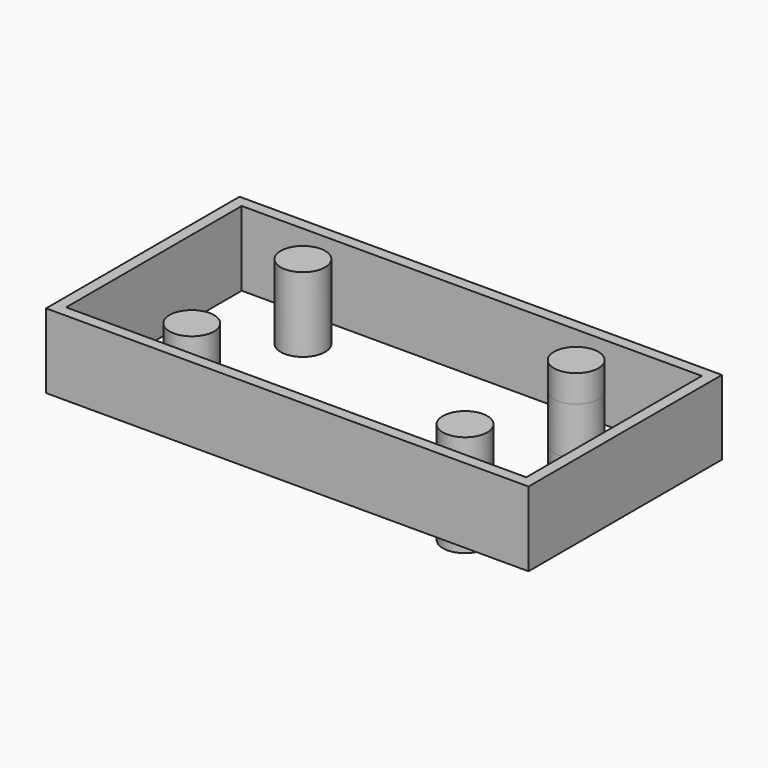
from build123d import *

# Parameters (mm, degrees)
F0_R       = 5.9775161225
F1_DEPTH   = 20.066
F0_W       = 129.7355321646
F0_H       = 65.0189756741
F0_W_2     = 123.7355321646
F0_H_2     = 59.0189756741
F1_FACE_R  = 5.9775161225
F1_FACE1_R = 5.9775161225
F2_DEPTH   = 7.366


with BuildPart() as f1:
    # F0 (on Top) → F1 (new body)
    with BuildSketch(Plane.XY):
        with Locations((36.7489270866, -18.6794780054)):
            Circle(F0_R)
    extrude(amount=F1_DEPTH)


with BuildPart() as f1b:
    # F0 (on Top) → F1, piece 2 (new body)
    with BuildSketch(Plane.XY):
        with Locations((-36.7489270866, -18.6794780054)):
            Circle(F0_R)
    extrude(amount=F1_DEPTH)


with BuildPart() as f1c:
    # F0 (on Top) → F1, piece 3 (new body)
    with BuildSketch(Plane.XY):
        with Locations((36.7489270866, 18.6794780054)):
            Circle(F0_R)
    extrude(amount=F1_DEPTH)


with BuildPart() as f1d:
    # F0 (on Top) → F1, piece 4 (new body)
    with BuildSketch(Plane.XY):
        Rectangle(F0_W, F0_H)
        Rectangle(F0_W_2, F0_H_2, mode=Mode.SUBTRACT)
    extrude(amount=F1_DEPTH)


with BuildPart() as f1e:
    # F0 (on Top) → F1, piece 5 (new body)
    with BuildSketch(Plane.XY):
        with Locations((-36.7489270866, 18.6794780054)):
            Circle(F0_R)
    extrude(amount=F1_DEPTH)


with BuildPart() as f2:
    # F1_face (on face) + F1_face1 (on face) → F2 (new body)
    with BuildSketch(Plane(origin=(36.7489270866, -18.6794780054, 0), x_dir=(1, 0, 0), z_dir=(0, 0, -1))):
        Circle(F1_FACE_R)
        with Locations((0, -37.3589560108)):
            Circle(F1_FACE_R)
    with BuildSketch(Plane(origin=(36.7489270866, 18.6794780054, 20.066), x_dir=(1, 0, 0), z_dir=(0, 0, 1))):
        Circle(F1_FACE1_R)
    extrude(amount=F2_DEPTH, dir=(0, 0, -1))


solid = Compound([f1.part, f1b.part, f1c.part, f1d.part, f1e.part, f2.part])
